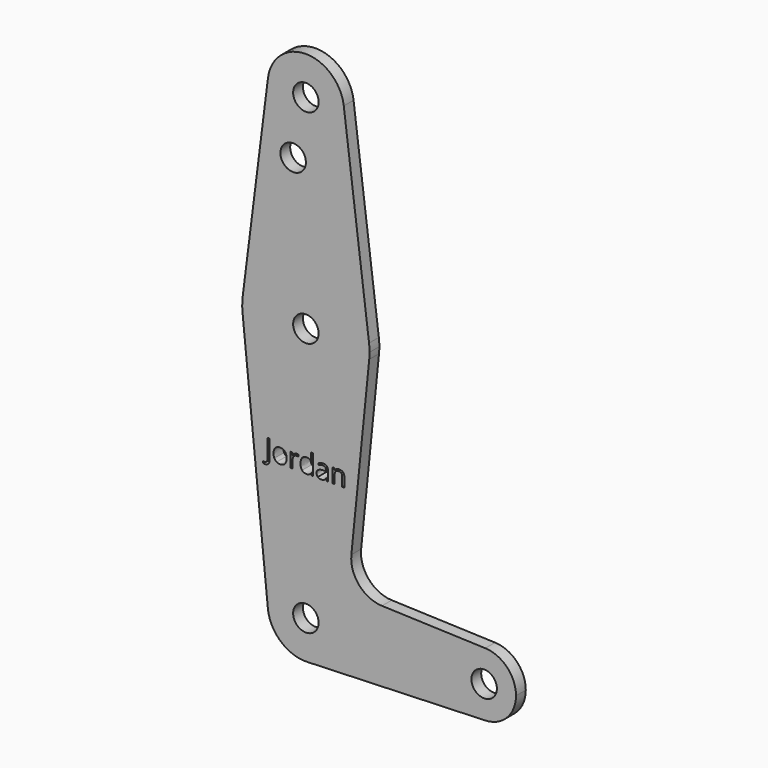
from build123d import *

# Parameters (mm, degrees)
F0_R     = 3.175
F1_DEPTH = 3.048


with BuildPart() as f1:
    # F0 (on Front) → F1 (new body)
    with BuildSketch(Plane.XZ):
        with BuildLine():
            ThreePointArc((-9.4502929642, 115.490625), (-0.596483242, 104.7936951058), (9.525, 114.3))
            ThreePointArc((9.525, 114.3), (9.5063048942, 114.896483242), (9.4502929642, 115.490625))
            ThreePointArc((9.4502929642, 115.490625), (0, 123.825), (-9.4502929642, 115.490625))
        make_face()
        with Locations((0, 114.3)):
            Circle(F0_R, mode=Mode.SUBTRACT)
        with BuildLine():
            ThreePointArc((9.4502929642, 115.490625), (9.5063048942, 114.896483242), (9.525, 114.3))
            ThreePointArc((9.525, 114.3), (-0.596483242, 104.7936951058), (-9.4502929642, 115.490625))
            Line((-9.4502929642, 115.490625), (-15.7504882737, 65.484375))
            ThreePointArc((-15.7504882737, 65.484375), (0, 79.375), (15.7504882737, 65.484375))
            Line((15.7504882737, 65.484375), (9.4502929642, 115.490625))
        make_face()
        with Locations((-3.175, 100.0252)):
            Circle(F0_R, mode=Mode.SUBTRACT)
        with BuildLine():
            ThreePointArc((15.875, 63.5), (15.8438414904, 64.4941387366), (15.7504882737, 65.484375))
            ThreePointArc((15.7504882737, 65.484375), (0, 79.375), (-15.7504882737, 65.484375))
            ThreePointArc((-15.7504882737, 65.484375), (-15.8737438155, 63.6997054867), (-15.7954255641, 61.9125))
            ThreePointArc((-15.7954255641, 61.9125), (0, 47.625), (15.7954255641, 61.9125))
            ThreePointArc((15.7954255641, 61.9125), (15.8550939106, 62.7052534459), (15.875, 63.5))
        make_face()
        with Locations((0, 63.5)):
            Circle(F0_R, mode=Mode.SUBTRACT)
        with BuildLine():
            ThreePointArc((15.7954255641, 61.9125), (0, 47.625), (-15.7954255641, 61.9125))
            Line((-15.7954255641, 61.9125), (-9.4772553384, -0.9525))
            ThreePointArc((-9.4772553384, -0.9525), (-0.4768479324, 9.5130563464), (9.525, 0))
            ThreePointArc((9.525, 0), (6.8544082857, -6.6138273378), (0.3401785714, -9.5189234444))
            Line((0.3401785714, -9.5189234444), (44.7334821429, -7.9324362036))
            ThreePointArc((44.7334821429, -7.9324362036), (36.5125, 0), (44.7334821429, 7.9324362036))
            Line((44.7334821429, 7.9324362036), (18.9676000005, 8.8532337108))
            ThreePointArc((18.9676000005, 8.8532337108), (13.2611998974, 11.5713591498), (11.3411865923, 17.5933818124))
            Line((11.3411865923, 17.5933818124), (15.7954255641, 61.9125))
        make_face()
        with BuildLine():
            add(Edge.make_bspline(
                [(-9.3477505007, 30.8167139411), (-9.6590568024, 30.4779089161), (-10.2432749619, 30.4779089161)],
                knots=[0, 0, 0, 1, 1, 1], degree=2))
            add(Edge.make_bspline(
                [(-10.2432749619, 30.4779089161), (-10.5473174499, 30.4779089161), (-10.7226866666, 30.5650746806)],
                knots=[0, 0, 0, 1, 1, 1], degree=2))
            Line((-10.7226866666, 30.5650746806), (-10.7226866666, 31.0351471962))
            add(Edge.make_bspline(
                [(-10.7226866666, 31.0351471962), (-10.4923200033, 30.9708105605), (-10.2432749619, 30.9708105605)],
                knots=[0, 0, 0, 1, 1, 1], degree=2))
            add(Edge.make_bspline(
                [(-10.2432749619, 30.9708105605), (-9.9215917835, 30.9708105605), (-9.7545240682, 31.165376999)],
                knots=[0, 0, 0, 1, 1, 1], degree=2))
            add(Edge.make_bspline(
                [(-9.7545240682, 31.165376999), (-9.587456353, 31.3599434376), (-9.587456353, 31.726247186)],
                knots=[0, 0, 0, 1, 1, 1], degree=2))
            Line((-9.587456353, 31.726247186), (-9.587456353, 36.4674421609))
            Line((-9.587456353, 36.4674421609), (-9.036444199, 36.4674421609))
            Line((-9.036444199, 36.4674421609), (-9.036444199, 31.7719054435))
            add(Edge.make_bspline(
                [(-9.036444199, 31.7719054435), (-9.036444199, 31.1555189662), (-9.3477505007, 30.8167139411)],
                knots=[0, 0, 0, 1, 1, 1], degree=2))
        make_face(mode=Mode.SUBTRACT)
        with BuildLine():
            add(Edge.make_bspline(
                [(-5.2317623483, 34.8491682359), (-4.7923016191, 34.3526346847), (-4.7923016191, 33.5069192317)],
                knots=[0, 0, 0, 1, 1, 1], degree=2))
            add(Edge.make_bspline(
                [(-4.7923016191, 33.5069192317), (-4.7923016191, 32.6373369623), (-5.229686973, 32.1491049124)],
                knots=[0, 0, 0, 1, 1, 1], degree=2))
            add(Edge.make_bspline(
                [(-5.229686973, 32.1491049124), (-5.6670723269, 31.6608728626), (-6.4391119551, 31.6608728626)],
                knots=[0, 0, 0, 1, 1, 1], degree=2))
            add(Edge.make_bspline(
                [(-6.4391119551, 31.6608728626), (-6.9164482844, 31.6608728626), (-7.2858650957, 31.8850133998)],
                knots=[0, 0, 0, 1, 1, 1], degree=2))
            add(Edge.make_bspline(
                [(-7.2858650957, 31.8850133998), (-7.6552819071, 32.1091539371), (-7.8565933155, 32.527342069)],
                knots=[0, 0, 0, 1, 1, 1], degree=2))
            add(Edge.make_bspline(
                [(-7.8565933155, 32.527342069), (-8.057904724, 32.945530201), (-8.057904724, 33.5069192317)],
                knots=[0, 0, 0, 1, 1, 1], degree=2))
            add(Edge.make_bspline(
                [(-8.057904724, 33.5069192317), (-8.057904724, 34.3754638135), (-7.6231135892, 34.8605828003)],
                knots=[0, 0, 0, 1, 1, 1], degree=2))
            add(Edge.make_bspline(
                [(-7.6231135892, 34.8605828003), (-7.1883224545, 35.3457017871), (-6.4162828263, 35.3457017871)],
                knots=[0, 0, 0, 1, 1, 1], degree=2))
            add(Edge.make_bspline(
                [(-6.4162828263, 35.3457017871), (-5.6712230775, 35.3457017871), (-5.2317623483, 34.8491682359)],
                knots=[0, 0, 0, 1, 1, 1], degree=2))
        make_face(mode=Mode.SUBTRACT)
        with BuildLine():
            add(Edge.make_bspline(
                [(-2.8393734197, 35.1573614746), (-2.5602354358, 35.3457017871), (-2.2261000053, 35.3457017871)],
                knots=[0, 0, 0, 1, 1, 1], degree=2))
            add(Edge.make_bspline(
                [(-2.2261000053, 35.3457017871), (-1.989507216, 35.3457017871), (-1.8016857473, 35.3062696556)],
                knots=[0, 0, 0, 1, 1, 1], degree=2))
            Line((-1.8016857473, 35.3062696556), (-1.8763992598, 34.8071418852))
            add(Edge.make_bspline(
                [(-1.8763992598, 34.8071418852), (-2.0963890463, 34.8559132058), (-2.2655321369, 34.8559132058)],
                knots=[0, 0, 0, 1, 1, 1], degree=2))
            add(Edge.make_bspline(
                [(-2.2655321369, 34.8559132058), (-2.6972102086, 34.8559132058), (-3.0033280719, 34.5056936163)],
                knots=[0, 0, 0, 1, 1, 1], degree=2))
            add(Edge.make_bspline(
                [(-3.0033280719, 34.5056936163), (-3.3094459353, 34.1554740269), (-3.3094459353, 33.6335171277)],
                knots=[0, 0, 0, 1, 1, 1], degree=2))
            Line((-3.3094459353, 33.6335171277), (-3.3094459353, 31.726247186))
            Line((-3.3094459353, 31.726247186), (-3.8480058372, 31.726247186))
            Line((-3.8480058372, 31.726247186), (-3.8480058372, 35.2803274638))
            Line((-3.8480058372, 35.2803274638), (-3.4038755135, 35.2803274638))
            Line((-3.4038755135, 35.2803274638), (-3.3416142531, 34.6224334795))
            Line((-3.3416142531, 34.6224334795), (-3.3156720613, 34.6224334795))
            add(Edge.make_bspline(
                [(-3.3156720613, 34.6224334795), (-3.1185114036, 34.9690211621), (-2.8393734197, 35.1573614746)],
                knots=[0, 0, 0, 1, 1, 1], degree=2))
        make_face(mode=Mode.SUBTRACT)
        with BuildLine():
            Line((1.3539224643, 31.726247186), (1.2823220149, 32.2025458276))
            Line((1.2823220149, 32.2025458276), (1.2532667601, 32.2025458276))
            add(Edge.make_bspline(
                [(1.2532667601, 32.2025458276), (0.8807368857, 31.6608728626), (0.1377525123, 31.6608728626)],
                knots=[0, 0, 0, 1, 1, 1], degree=2))
            add(Edge.make_bspline(
                [(0.1377525123, 31.6608728626), (-0.5595736035, 31.6608728626), (-0.9471499492, 32.137690348)],
                knots=[0, 0, 0, 1, 1, 1], degree=2))
            add(Edge.make_bspline(
                [(-0.9471499492, 32.137690348), (-1.3347262948, 32.6145078335), (-1.3347262948, 33.493429292)],
                knots=[0, 0, 0, 1, 1, 1], degree=2))
            add(Edge.make_bspline(
                [(-1.3347262948, 33.493429292), (-1.3347262948, 34.3723507505), (-0.9455934177, 34.8590262688)],
                knots=[0, 0, 0, 1, 1, 1], degree=2))
            add(Edge.make_bspline(
                [(-0.9455934177, 34.8590262688), (-0.5564605405, 35.3457017871), (0.1377525123, 35.3457017871)],
                knots=[0, 0, 0, 1, 1, 1], degree=2))
            add(Edge.make_bspline(
                [(0.1377525123, 35.3457017871), (0.8610208199, 35.3457017871), (1.247040634, 34.8195941372)],
                knots=[0, 0, 0, 1, 1, 1], degree=2))
            Line((1.247040634, 34.8195941372), (1.2895858286, 34.8195941372))
            Line((1.2895858286, 34.8195941372), (1.2667566998, 35.0759029923))
            Line((1.2667566998, 35.0759029923), (1.2532667601, 35.3259857213))
            Line((1.2532667601, 35.3259857213), (1.2532667601, 36.7725223366))
            Line((1.2532667601, 36.7725223366), (1.791826662, 36.7725223366))
            Line((1.791826662, 36.7725223366), (1.791826662, 31.726247186))
            Line((1.791826662, 31.726247186), (1.3539224643, 31.726247186))
        make_face(mode=Mode.SUBTRACT)
        with BuildLine():
            Line((5.5181630934, 31.726247186), (5.1186533396, 31.726247186))
            Line((5.1186533396, 31.726247186), (5.0117715093, 32.2326387701))
            Line((5.0117715093, 32.2326387701), (4.9858293175, 32.2326387701))
            add(Edge.make_bspline(
                [(4.9858293175, 32.2326387701), (4.7201812734, 31.8985033396), (4.4560897608, 31.7796881011)],
                knots=[0, 0, 0, 1, 1, 1], degree=2))
            add(Edge.make_bspline(
                [(4.4560897608, 31.7796881011), (4.1919982482, 31.6608728626), (3.7956015573, 31.6608728626)],
                knots=[0, 0, 0, 1, 1, 1], degree=2))
            add(Edge.make_bspline(
                [(3.7956015573, 31.6608728626), (3.2674185321, 31.6608728626), (2.9675267948, 31.9337847204)],
                knots=[0, 0, 0, 1, 1, 1], degree=2))
            add(Edge.make_bspline(
                [(2.9675267948, 31.9337847204), (2.6676350575, 32.2066965783), (2.6676350575, 32.7089374117)],
                knots=[0, 0, 0, 1, 1, 1], degree=2))
            add(Edge.make_bspline(
                [(2.6676350575, 32.7089374117), (2.6676350575, 33.7850195279), (4.3891589059, 33.8369039115)],
                knots=[0, 0, 0, 1, 1, 1], degree=2))
            Line((4.3891589059, 33.8369039115), (4.9920554435, 33.8566199773))
            Line((4.9920554435, 33.8566199773), (4.9920554435, 34.0776474515))
            add(Edge.make_bspline(
                [(4.9920554435, 34.0776474515), (4.9920554435, 34.4958355835), (4.8125354762, 34.6950716166)],
                knots=[0, 0, 0, 1, 1, 1], degree=2))
            add(Edge.make_bspline(
                [(4.8125354762, 34.6950716166), (4.6330155089, 34.8943076496), (4.2366188181, 34.8943076496)],
                knots=[0, 0, 0, 1, 1, 1], degree=2))
            add(Edge.make_bspline(
                [(4.2366188181, 34.8943076496), (3.7924884943, 34.8943076496), (3.2321371512, 34.6224334795)],
                knots=[0, 0, 0, 1, 1, 1], degree=2))
            Line((3.2321371512, 34.6224334795), (3.0661071237, 35.0343954854))
            add(Edge.make_bspline(
                [(3.0661071237, 35.0343954854), (3.3286421048, 35.1765586965), (3.641504938, 35.257498335)],
                knots=[0, 0, 0, 1, 1, 1], degree=2))
            add(Edge.make_bspline(
                [(3.641504938, 35.257498335), (3.9543677712, 35.3384379734), (4.2698248236, 35.3384379734)],
                knots=[0, 0, 0, 1, 1, 1], degree=2))
            add(Edge.make_bspline(
                [(4.2698248236, 35.3384379734), (4.9048896791, 35.3384379734), (5.2115263862, 35.0567057704)],
                knots=[0, 0, 0, 1, 1, 1], degree=2))
            add(Edge.make_bspline(
                [(5.2115263862, 35.0567057704), (5.5181630934, 34.7749735673), (5.5181630934, 34.1523609639)],
                knots=[0, 0, 0, 1, 1, 1], degree=2))
            Line((5.5181630934, 34.1523609639), (5.5181630934, 31.726247186))
        make_face(mode=Mode.SUBTRACT)
        with BuildLine():
            Line((9.5973133334, 31.726247186), (9.0587534315, 31.726247186))
            Line((9.0587534315, 31.726247186), (9.0587534315, 34.0257630679))
            add(Edge.make_bspline(
                [(9.0587534315, 34.0257630679), (9.0587534315, 34.4595165149), (8.8610739299, 34.6737990193)],
                knots=[0, 0, 0, 1, 1, 1], degree=2))
            add(Edge.make_bspline(
                [(8.8610739299, 34.6737990193), (8.6633944283, 34.8880815236), (8.2410555457, 34.8880815236)],
                knots=[0, 0, 0, 1, 1, 1], degree=2))
            add(Edge.make_bspline(
                [(8.2410555457, 34.8880815236), (7.6838172656, 34.8880815236), (7.4243953475, 34.5866332548)],
                knots=[0, 0, 0, 1, 1, 1], degree=2))
            add(Edge.make_bspline(
                [(7.4243953475, 34.5866332548), (7.1649734295, 34.285184986), (7.1649734295, 33.5909719332)],
                knots=[0, 0, 0, 1, 1, 1], degree=2))
            Line((7.1649734295, 33.5909719332), (7.1649734295, 31.726247186))
            Line((7.1649734295, 31.726247186), (6.6264135275, 31.726247186))
            Line((6.6264135275, 31.726247186), (6.6264135275, 35.2803274638))
            Line((6.6264135275, 35.2803274638), (7.0643177252, 35.2803274638))
            Line((7.0643177252, 35.2803274638), (7.1514834897, 34.7936519454))
            Line((7.1514834897, 34.7936519454), (7.1774256815, 34.7936519454))
            add(Edge.make_bspline(
                [(7.1774256815, 34.7936519454), (7.3434557091, 35.0561869265), (7.6417909149, 35.2009443568)],
                knots=[0, 0, 0, 1, 1, 1], degree=2))
            add(Edge.make_bspline(
                [(7.6417909149, 35.2009443568), (7.9401261207, 35.3457017871), (8.306429869, 35.3457017871)],
                knots=[0, 0, 0, 1, 1, 1], degree=2))
            add(Edge.make_bspline(
                [(8.306429869, 35.3457017871), (8.9487585382, 35.3457017871), (9.2730359358, 35.0359520169)],
                knots=[0, 0, 0, 1, 1, 1], degree=2))
            add(Edge.make_bspline(
                [(9.2730359358, 35.0359520169), (9.5973133334, 34.7262022467), (9.5973133334, 34.044441446)],
                knots=[0, 0, 0, 1, 1, 1], degree=2))
            Line((9.5973133334, 34.044441446), (9.5973133334, 31.726247186))
        make_face(mode=Mode.SUBTRACT)
        with BuildLine():
            ThreePointArc((9.525, 0), (-0.4768479324, 9.5130563464), (-9.4772553384, -0.9525))
            ThreePointArc((-9.4772553384, -0.9525), (-6.2623833816, -7.1769199091), (0.3401785714, -9.5189234444))
            ThreePointArc((0.3401785714, -9.5189234444), (6.8544082857, -6.6138273378), (9.525, 0))
        make_face()
        Circle(F0_R, mode=Mode.SUBTRACT)
        with BuildLine():
            ThreePointArc((44.7334821429, 7.9324362036), (36.5125, 0), (44.7334821429, -7.9324362036))
            ThreePointArc((44.7334821429, -7.9324362036), (50.1620069047, -5.5115227815), (52.3875, 0))
            ThreePointArc((52.3875, 0), (50.1620069047, 5.5115227815), (44.7334821429, 7.9324362036))
        make_face()
        with Locations((44.45, 0)):
            Circle(F0_R, mode=Mode.SUBTRACT)
    extrude(amount=F1_DEPTH)


solid = f1.part
